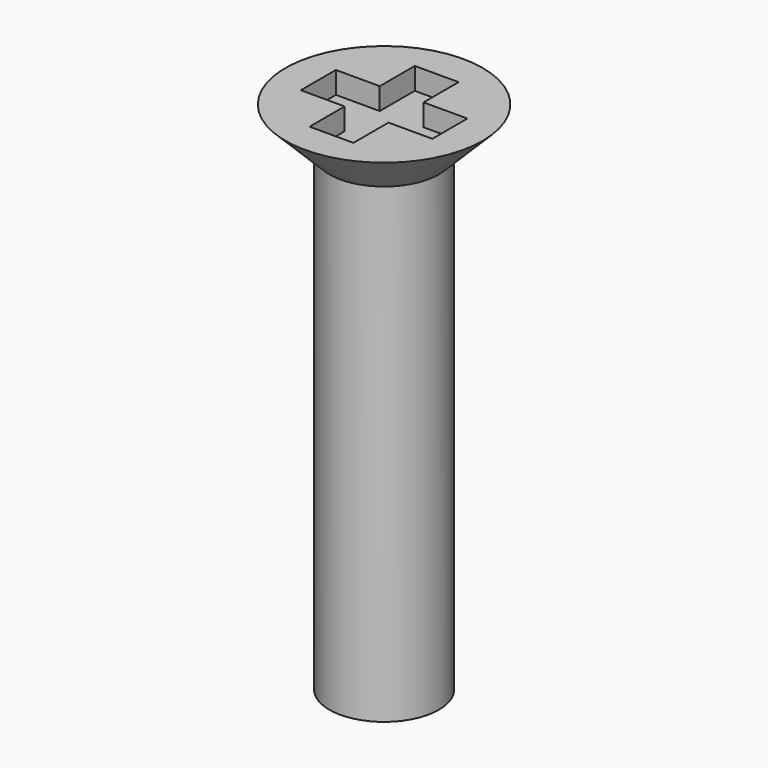
from build123d import *

# Parameters (mm, degrees)
F0_R      = 3.175
F1_DEPTH  = 27.305
F1_FACE_R = 3.175
F2_DEPTH  = 2.54
F2_TAPER  = -45
F3_W      = 2.54
F3_H      = 2.54
F4_DEPTH  = 1.27


with BuildPart() as f1:
    # F0 (on Top) → F1 (new body)
    with BuildSketch(Plane.XY):
        Circle(F0_R)
    extrude(amount=F1_DEPTH)

    # F1_face (on face) → F2 (join)
    with BuildSketch(Plane.XY.offset(27.305)):
        Circle(F1_FACE_R)
    extrude(amount=F2_DEPTH, taper=F2_TAPER)

    # F3 (on face) → F4 (cut)
    with BuildSketch(Plane.XY.offset(29.845)):
        with Locations((0, 2.54)):
            Rectangle(F3_W, F3_H)
        with Locations((-2.54, 0)):
            Rectangle(F3_W, F3_H)
        Rectangle(F3_W, F3_H)
        with Locations((2.54, 0)):
            Rectangle(F3_W, F3_H)
        with Locations((0, -2.54)):
            Rectangle(F3_W, F3_H)
    extrude(amount=-F4_DEPTH, mode=Mode.SUBTRACT)


solid = f1.part
